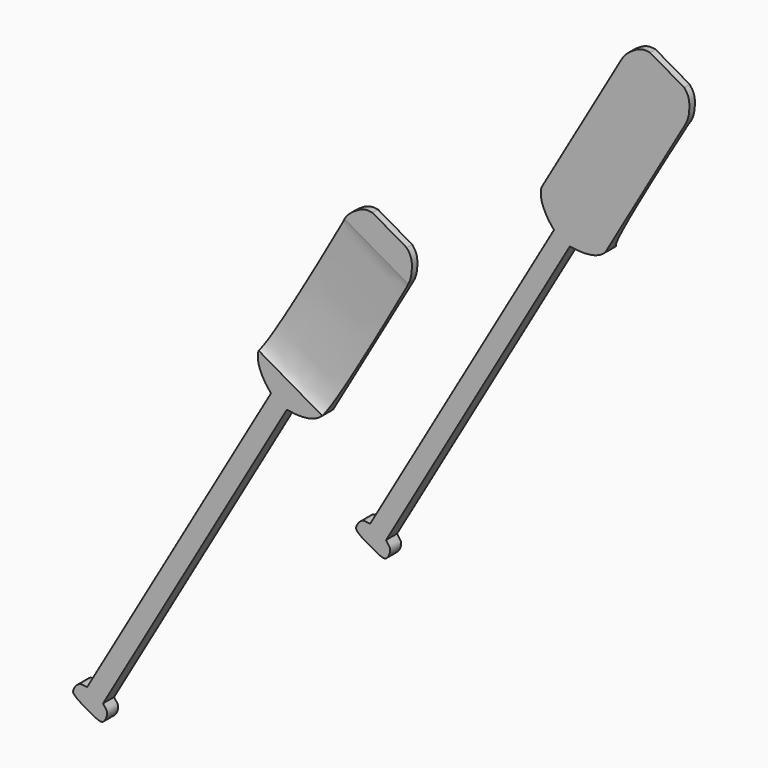
from build123d import *

# Parameters (mm, degrees)
F1_DEPTH  = 3
F3_DEPTH  = 25
F4_DEPTH  = 25
F6_DEPTH  = 25
F7_SCALE  = 10
F11_ANGLE = 30


with BuildPart() as f1:
    # F0 (on Front) → F1 (new body)
    with BuildSketch(Plane.XZ):
        with BuildLine():
            Line((-2, -70), (0, -70))
            Line((0, -70), (2, -70))
            add(Edge.make_bspline(
                [(2, -70), (3.1129508279, -69.8429495096), (4.0887807644, -69.7524567638), (3.8091625732, -66.7465520763), (2.5564337667, -66.6317188221), (2, -66.3009434938)],
                knots=[0, 0, 0, 0, 0.3326586248, 0.6840297713, 1, 1, 1, 1], degree=3))
            Line((2, -66.3009434938), (2, 13.6990565062))
            add(Edge.make_bspline(
                [(2, 13.6990565062), (3.2700674502, 14.1496033645), (5.6318393005, 15.24429908), (7.6000224799, 17.2538645566), (8, 18.7116526067)],
                knots=[0, 0, 0, 0, 0.4946082825, 1, 1, 1, 1], degree=3))
            Line((8, 18.7116526067), (8, 53.7116526067))
            add(Edge.make_bspline(
                [(8, 53.7116526067), (7.9872235656, 55.0726018846), (6.9410634431, 57.4139635244), (5.7660103776, 58.9948184788), (4.2787827551, 59.5)],
                knots=[0, 0, 0, 0, 0.5099867036, 1, 1, 1, 1], degree=3))
            Line((4.2787827551, 59.5), (0, 59.5))
            Line((0, 59.5), (-4.2787827551, 59.5))
            add(Edge.make_bspline(
                [(-8, 53.7116526067), (-7.9872235656, 55.0726018846), (-6.9410634431, 57.4139635244), (-5.7660103776, 58.9948184788), (-4.2787827551, 59.5)],
                knots=[0, 0, 0, 0, 0.5099867036, 1, 1, 1, 1], degree=3))
            Line((-8, 53.7116526067), (-8, 18.7116526067))
            add(Edge.make_bspline(
                [(-2, 13.6990565062), (-3.2700674502, 14.1496033645), (-5.6318393005, 15.24429908), (-7.6000224799, 17.2538645566), (-8, 18.7116526067)],
                knots=[0, 0, 0, 0, 0.4946082825, 1, 1, 1, 1], degree=3))
            Line((-2, 13.6990565062), (-2, -66.3009434938))
            add(Edge.make_bspline(
                [(-2, -70), (-3.1129508279, -69.8429495096), (-4.0887807644, -69.7524567638), (-3.8091625732, -66.7465520763), (-2.5564337667, -66.6317188221), (-2, -66.3009434938)],
                knots=[0, 0, 0, 0, 0.3326586248, 0.6840297713, 1, 1, 1, 1], degree=3))
        make_face()
    extrude(amount=F1_DEPTH)

    # F2 (on face) → F3 (cut)
    with BuildSketch(Plane.YZ.offset(8)):
        Polygon((-1.5, 53.7116526067), (0, 18.7116526067), (0, 53.7116526067), align=None)
    extrude(amount=-F3_DEPTH, mode=Mode.SUBTRACT)

    # F4 (cut): a face of the model
    f4_faces = [f1.faces().sort_by_distance(p)[0] for p in [
        (0, -0.75, 53.7116526067),
    ]]
    extrude(f4_faces, amount=-F4_DEPTH, mode=Mode.SUBTRACT)

    # F5 (on face) → F6 (cut)
    with BuildSketch(Plane.YZ.offset(8)):
        with BuildLine():
            add(Edge.make_bspline(
                [(0, 18.7116526067), (-1.6864787658, 19.8648030926), (-2.0817921921, 35.4553880208), (-1.9922982015, 43.7017181267), (-1.7083461419, 50.7031306662), (-1.7561413063, 52.8860336909), (-1.5, 53.7116526067)],
                knots=[0, 0, 0, 0, 0.347145069, 0.6283563957, 0.8509267079, 1, 1, 1, 1], degree=3))
            Line((0, 18.7116526067), (-1.5, 53.7116526067))
        make_face()
    extrude(amount=-F6_DEPTH, mode=Mode.SUBTRACT)


with BuildPart() as f1_1:
    # F7: moved
    add(f1.part.scale(F7_SCALE))


with BuildPart() as f9_1:
    # F9: instance of F1
    add(f1_1.part.mirror(Plane.XZ.offset(400)))


with BuildPart() as f1_2:
    # F11: moved
    add(f1_1.part.rotate(Axis((20, -15, -400), (0, 1, 0)), F11_ANGLE))


with BuildPart() as f9_1_1:
    # F11: moved
    add(f9_1.part.rotate(Axis((20, -15, -400), (0, 1, 0)), F11_ANGLE))


solid = Compound([f1_2.part, f9_1_1.part])
